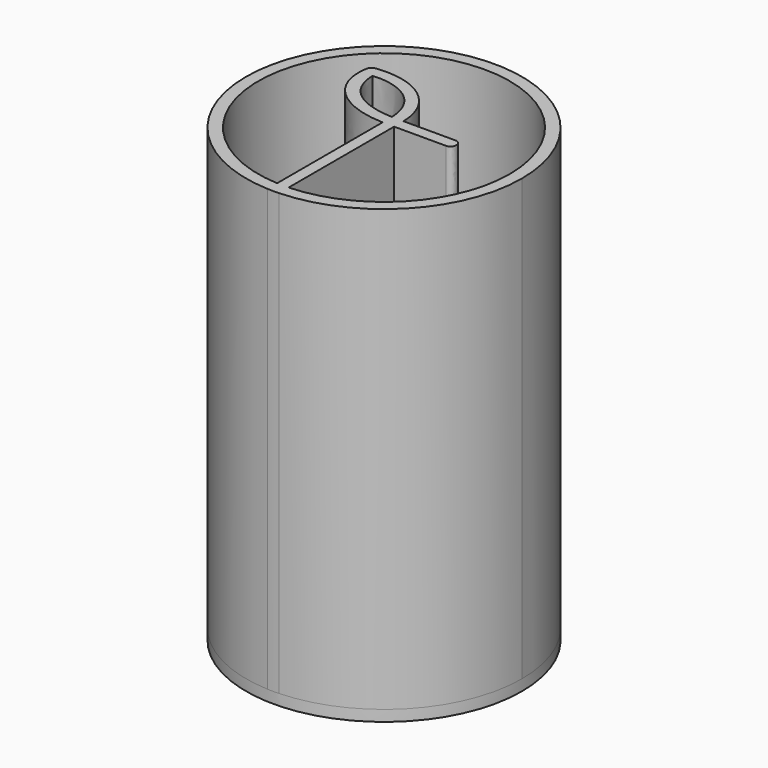
from build123d import *

# Parameters (mm, degrees)
F1_DEPTH = 80
F2_R     = 25.0450733491
F3_DEPTH = 2
F4_SCALE = 1.5


with BuildPart() as f1:
    # F0 (on Top) → F1 (new body)
    with BuildSketch(Plane.XY):
        with BuildLine():
            ThreePointArc((-83.9803607371, -38.2521874792), (-66.8806784634, -30.5992095312), (-59.8739669949, -13.2247109851))
            ThreePointArc((-59.8739669949, -13.2247109851), (-102.2138217774, 4.8900960587), (-86.0784208338, -38.2429350617))
            Line((-86.0784208338, -38.2429350617), (-86.0784208338, -36.0403462646))
            ThreePointArc((-86.0784208338, -36.0403462646), (-100.6577068059, 3.3340255104), (-62.0739669949, -13.2247109851))
            ThreePointArc((-62.0739669949, -13.2247109851), (-68.4366014954, -29.0432629394), (-83.9803607371, -36.0504915177))
            Line((-83.9803607371, -36.0504915177), (-83.9803607371, -38.2521874792))
        make_face()
        with BuildLine():
            Line((-86.0784208338, -36.0403462646), (-86.0784208338, -38.2429350617))
            ThreePointArc((-86.0784208338, -38.2429350617), (-85.0294877149, -38.2695407997), (-83.9803607371, -38.2521874792))
            Line((-83.9803607371, -38.2521874792), (-83.9803607371, -36.0504915177))
            ThreePointArc((-83.9803607371, -36.0504915177), (-85.029507314, -36.0695172521), (-86.0784208338, -36.0403462646))
        make_face()
        with BuildLine():
            Line((-86.0784208338, -12.1068419315), (-86.0784208338, -36.0403462646))
            ThreePointArc((-86.0784208338, -36.0403462646), (-85.029507314, -36.0695172521), (-83.9803607371, -36.0504915177))
            Line((-83.9803607371, -36.0504915177), (-83.9803607371, -12.1068419315))
            Line((-83.9803607371, -12.1068419315), (-74.5387463539, -12.1068419315))
            add(Edge.make_bspline(
                [(-74.5387463539, -9.9696172834), (-73.2151210172, -9.9696172834), (-73.2151210172, -12.1068419315), (-74.5387463539, -12.1068419315)],
                knots=[0, 0, 0, 0, 2.1372246482, 2.1372246482, 2.1372246482, 2.1372246482], degree=3))
            Line((-74.5387463539, -9.9696172834), (-83.9803607371, -9.9696172834))
            add(Edge.make_bspline(
                [(-83.9803607371, -9.9696172834), (-84.0809768118, -3.6797905773), (-89.3996719456, 1.1776616923), (-97.2777081452, 0.2270288754)],
                knots=[0, 0, 0, 0, 16.75682073, 16.75682073, 16.75682073, 16.75682073], degree=3))
            add(Edge.make_bspline(
                [(-98.1584286764, -0.7088489999), (-98.0651277816, -0.131296323), (-97.7239810489, 0.1096969641), (-97.2777081452, 0.2270288754)],
                knots=[0, 0, 0, 0, 1.285121026, 1.285121026, 1.285121026, 1.285121026], degree=3))
            add(Edge.make_bspline(
                [(-86.0784208338, -12.1068419315), (-94.3202596093, -11.7972125657), (-99.1570433309, -6.8904892511), (-98.1584286764, -0.7088489999)],
                knots=[0, 0, 0, 0, 16.6084566517, 16.6084566517, 16.6084566517, 16.6084566517], degree=3))
        make_face()
        with BuildLine():
            add(Edge.make_bspline(
                [(-86.0784208338, -9.9696172834), (-86.3917425183, -3.4782894727), (-91.9644045086, -1.3975845126), (-96.120710429, -1.8510752765)],
                knots=[0, 0, 0, 0, 12.9134931227, 12.9134931227, 12.9134931227, 12.9134931227], degree=3))
            add(Edge.make_bspline(
                [(-96.120710429, -1.8510752765), (-95.9267848545, -7.8749013541), (-90.8607281187, -9.7746726897), (-86.0784208338, -9.9696172834)],
                knots=[0, 0, 0, 0, 12.9134931227, 12.9134931227, 12.9134931227, 12.9134931227], degree=3))
        make_face(mode=Mode.SUBTRACT)
    extrude(amount=F1_DEPTH)

    # F2 (on face) → F3 (join)
    with BuildSketch(Plane(origin=(0, 0, 0), x_dir=(1, 0, 0), z_dir=(0, 0, -1))):
        with Locations((-84.919040344, 13.2247109851)):
            Circle(F2_R)
    extrude(amount=F3_DEPTH)


with BuildPart() as f1_1:
    # F4: moved
    add(f1.part.scale(F4_SCALE).moved(Location((41.9901803686, 6.0534209658, -40))))


solid = f1_1.part
